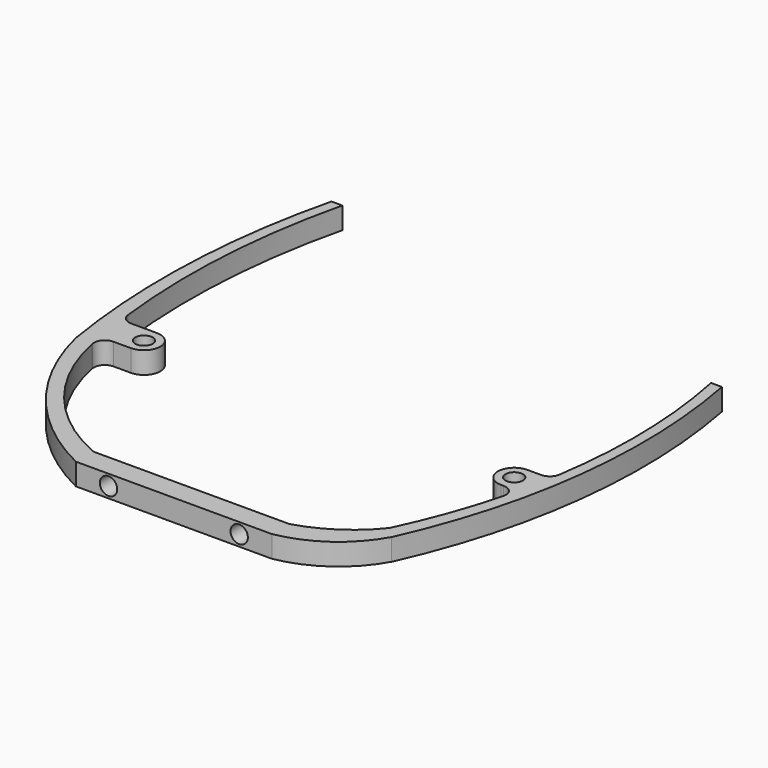
from build123d import *

# Parameters (mm, degrees)
PAD_DEPTH    = 4
SKETCH001_R  = 1.6
POCKET_DEPTH = 86.001
SKETCH002_R  = 1.6
PAD001_DEPTH = 4
FILLET_R     = 2


with BuildPart() as pocket:
    # Sketch → Pad (new body)
    with BuildSketch(Plane.XY):
        with BuildLine():
            ThreePointArc((24, -6), (32.130235, -2.582329), (38, 4))
            ThreePointArc((38, 4), (47.03758, 36.391617), (45.866557, 70))
            Line((45.866557, 70), (43.866557, 70))
            ThreePointArc((36, 6), (45.123719, 37.362017), (43.866557, 70))
            ThreePointArc((24, -2), (30.615137, 1.077295), (36, 6))
            Line((-12, -2), (24, -2))
            ThreePointArc((-33, 24), (-25.700047, 8.415346), (-12, -2))
            ThreePointArc((-31.852316, 80), (-35.478006, 52.062546), (-33, 24))
            Line((-33.852316, 80), (-31.852316, 80))
            ThreePointArc((-33.852316, 80), (-37.756855, 52.108561), (-36, 24))
            ThreePointArc((-36, 24), (-27.362437, 6.310051), (-12, -6))
            Line((-12, -6), (24, -6))
        make_face()
    extrude(amount=PAD_DEPTH)

    # Sketch001 → Pocket (cut, through all)
    with BuildSketch(Plane.XZ.offset(6)):
        with Locations((-6, 2)):
            Circle(SKETCH001_R)
        with Locations((18, 2)):
            Circle(SKETCH001_R)
    extrude(amount=-POCKET_DEPTH, mode=Mode.SUBTRACT)


with BuildPart() as fillet_body:
    # Sketch002 → Pad001 (new body)
    with BuildSketch(Plane.XY):
        with BuildLine():
            ThreePointArc((-27.855, 26.46), (-24.855, 29.46), (-27.855, 32.46))
            Line((-27.855, 32.46), (-34.855, 32.46))
            Line((-34.855, 32.46), (-34.855, 26.46))
            Line((-34.855, 26.46), (-27.855, 26.46))
        make_face()
        with Locations((-27.855, 29.46)):
            Circle(SKETCH002_R, mode=Mode.SUBTRACT)
        with BuildLine():
            ThreePointArc((40.145, 32.46), (37.145, 29.46), (40.145, 26.46))
            Line((40.145, 26.46), (44.645, 26.46))
            Line((44.645, 32.46), (44.645, 26.46))
            Line((40.145, 32.46), (44.645, 32.46))
        make_face()
        with Locations((40.145, 29.46)):
            Circle(SKETCH002_R, mode=Mode.SUBTRACT)
    extrude(amount=PAD001_DEPTH)

    # Fusion: union Pocket
    add(pocket.part)

    # Fillet
    fillet_edges = [fillet_body.edges().sort_by_distance(p)[0] for p in [
        (-34.397019, 32.46, 2),
        (-33.465486, 26.46, 2),
        (44.39992, 32.46, 2),
        (43.177998, 26.46, 2),
    ]]
    fillet(fillet_edges, radius=FILLET_R)


solid = fillet_body.part
